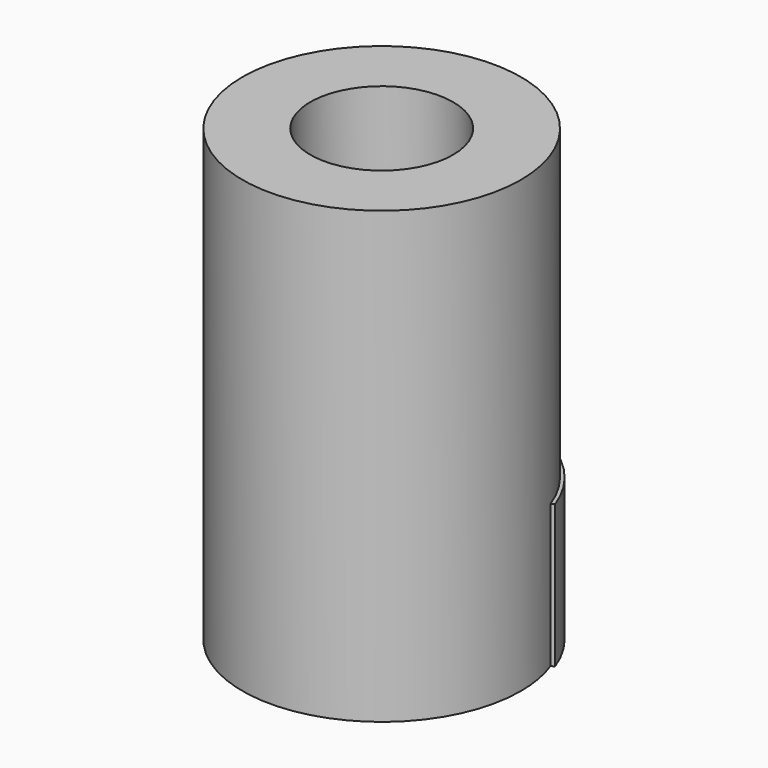
from build123d import *

# Parameters (mm, degrees)
SKETCH011_R     = 5.85
SKETCH011_R_2   = 1.4
PAD002_DEPTH    = 18.9
PAD007_DEPTH    = 6
SKETCH013_R     = 3
POCKET009_DEPTH = 4


with BuildPart() as part:
    # Sketch011 → Pad002 (new body)
    with BuildSketch(Plane.XY):
        Circle(SKETCH011_R)
        Circle(SKETCH011_R_2, mode=Mode.SUBTRACT)
    extrude(amount=PAD002_DEPTH)

    # Sketch012 → Pad007 (join)
    with BuildSketch(Plane.XY):
        with BuildLine():
            ThreePointArc((5.497202, 2.000818), (0, 5.85), (-5.497202, 2.000818))
            Line((-5.497202, 2.000818), (-5.638156, 2.052121))
            ThreePointArc((5.638156, 2.052121), (0, 6), (-5.638156, 2.052121))
            Line((5.497202, 2.000818), (5.638156, 2.052121))
        make_face()
    extrude(amount=PAD007_DEPTH)

    # Sketch013 → Pocket009 (cut)
    with BuildSketch(Plane.XY.offset(18.9)):
        Circle(SKETCH013_R)
    extrude(amount=-POCKET009_DEPTH, mode=Mode.SUBTRACT)


solid = part.part
